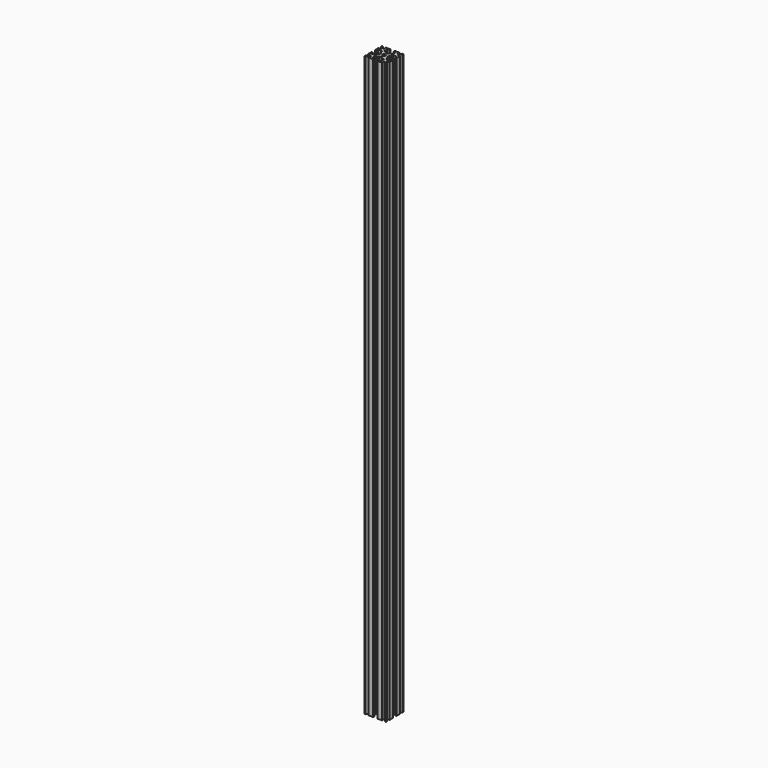
from build123d import *

# Parameters (mm, degrees)
F1_DEPTH = 400


with BuildPart() as f1:
    # F0 (on Top) → F1 (new body)
    with BuildSketch(Plane.XY):
        Polygon((-7.5, 4.630586), (-7.5, 1.5), (-6.5, 1.5), (-6.5, 3), (-3.65, 3), (-3.65, 1.5), (-2.714823, 0.814886), (-2.714823, 0), (-2.714823, -0.814886), (-3.65, -1.5), (-3.65, -3), (-6.5, -3), (-6.5, -1.5), (-7.5, -1.5), (-7.5, -4.630586), (-5.337693, -4.630586), (-7.5, -6.792893), (-7.5, -7.5), (-6.792893, -7.5), (-4.630586, -5.337693), (-4.630586, -7.5), (-1.5, -7.5), (-1.5, -6.5), (-3, -6.5), (-3, -3.65), (-1.5, -3.65), (-0.814886, -2.714823), (0, -2.714823), (0.814886, -2.714823), (1.5, -3.65), (3, -3.65), (3, -6.5), (1.5, -6.5), (1.5, -7.5), (4.630586, -7.5), (4.630586, -5.337693), (6.792893, -7.5), (7.5, -7.5), (7.5, -6.792893), (5.337693, -4.630586), (7.5, -4.630586), (7.5, -1.5), (6.5, -1.5), (6.5, -3), (3.65, -3), (3.65, -1.5), (2.714823, -0.814886), (2.714823, 0), (2.714823, 0.814886), (3.65, 1.5), (3.65, 3), (6.5, 3), (6.5, 1.5), (7.5, 1.5), (7.5, 4.630586), (5.337693, 4.630586), (7.5, 6.792893), (7.5, 7.5), (6.792893, 7.5), (4.630586, 5.337693), (4.630586, 7.5), (1.5, 7.5), (1.5, 6.5), (3, 6.5), (3, 3.65), (1.5, 3.65), (0.814886, 2.714823), (0, 2.714823), (-0.814886, 2.714823), (-1.5, 3.65), (-3, 3.65), (-3, 6.5), (-1.5, 6.5), (-1.5, 7.5), (-4.630586, 7.5), (-4.630586, 5.337693), (-6.792893, 7.5), (-7.5, 7.5), (-7.5, 6.792893), (-5.337693, 4.630586), align=None)
        with BuildLine():
            ThreePointArc((-1.15, 0), (-0.813173, 0.813173), (0, 1.15))
            ThreePointArc((0, 1.15), (0.813173, 0.813173), (1.15, 0))
            ThreePointArc((1.15, 0), (0.813173, -0.813173), (0, -1.15))
            ThreePointArc((0, -1.15), (-0.813173, -0.813173), (-1.15, 0))
        make_face(mode=Mode.SUBTRACT)
    extrude(amount=F1_DEPTH)


solid = f1.part
